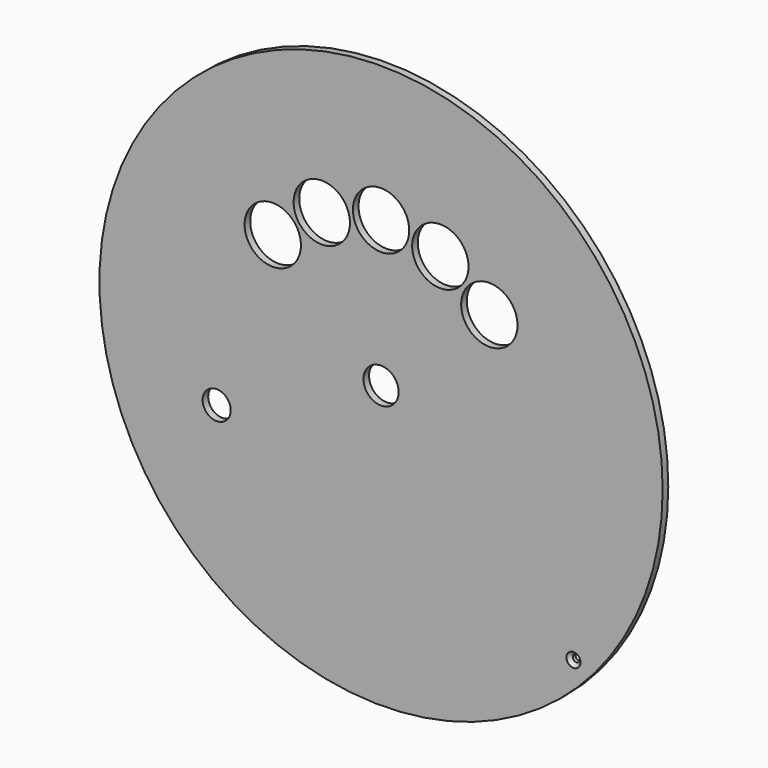
from build123d import *

# Parameters (mm, degrees)
F0_R           = 20
F1_DEPTH       = 0.5
F3_D           = 2.5
F4_R           = 2
F5_DEPTH       = 25.4
F7_D           = 0.5
F7_CSINK_D     = 1
F7_CSINK_ANGLE = 90
F9_D           = 2


with BuildPart() as f1:
    # F0 (on Front) → F1 (new body)
    with BuildSketch(Plane.XZ):
        Circle(F0_R)
    extrude(amount=F1_DEPTH)

    # F3 (through all)
    with Locations(Plane.XZ.offset(0.5)):
        with Locations((0, 0)):
            Hole(F3_D / 2)

    # F4 (on face) → F5 (cut)
    with BuildSketch(Plane.XZ.offset(0.5)):
        with Locations((-7.690389, 6.924457)):
            Circle(F4_R)
        with Locations((-4.209089, 9.453769)):
            Circle(F4_R)
        with Locations((0, 10.348439)):
            Circle(F4_R)
        with Locations((4.209089, 9.453769)):
            Circle(F4_R)
        with Locations((7.690389, 6.924457)):
            Circle(F4_R)
    extrude(amount=-F5_DEPTH, mode=Mode.SUBTRACT)

    # F7 (through all)
    with Locations(Plane.XZ.offset(0.5)):
        with Locations((13.66825, -12.708602)):
            CounterSinkHole(F7_D / 2, F7_CSINK_D / 2, counter_sink_angle=F7_CSINK_ANGLE)

    # F9 (through all)
    with Locations(Plane.XZ.offset(0.5)):
        with Locations((-11.675261, -5.019424)):
            Hole(F9_D / 2)


solid = f1.part
